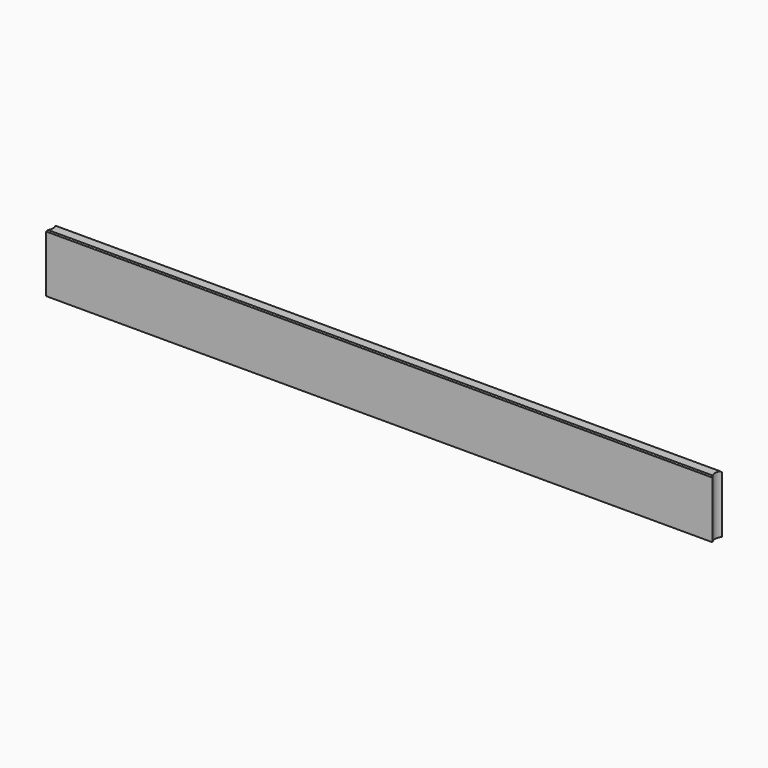
from build123d import *

# Parameters (mm, degrees)
F1_DEPTH = 1000
F2_SIZE  = 20
F3_SIZE  = 20


with BuildPart() as f1:
    # F0 (on Top) → F1 (new body)
    with BuildSketch(Plane.XY):
        with BuildLine():
            ThreePointArc((-111.803399, -100), (-149.464163, 0), (-111.803399, 100))
            Line((-111.803399, 100), (-11588.196601, 100))
            ThreePointArc((-11588.196601, 100), (-11548.832228, 0), (-11588.196601, -100))
            Line((-11588.196601, -100), (-111.803399, -100))
        make_face()
    extrude(amount=F1_DEPTH)

    # F2
    f2_edges = [f1.edges().sort_by_distance(p)[0] for p in [
        (-5850, -100, 1000),
    ]]
    chamfer(f2_edges, length=F2_SIZE)

    # F3
    f3_edges = [f1.edges().sort_by_distance(p)[0] for p in [
        (-5850, 100, 1000),
    ]]
    chamfer(f3_edges, length=F3_SIZE)


solid = f1.part
